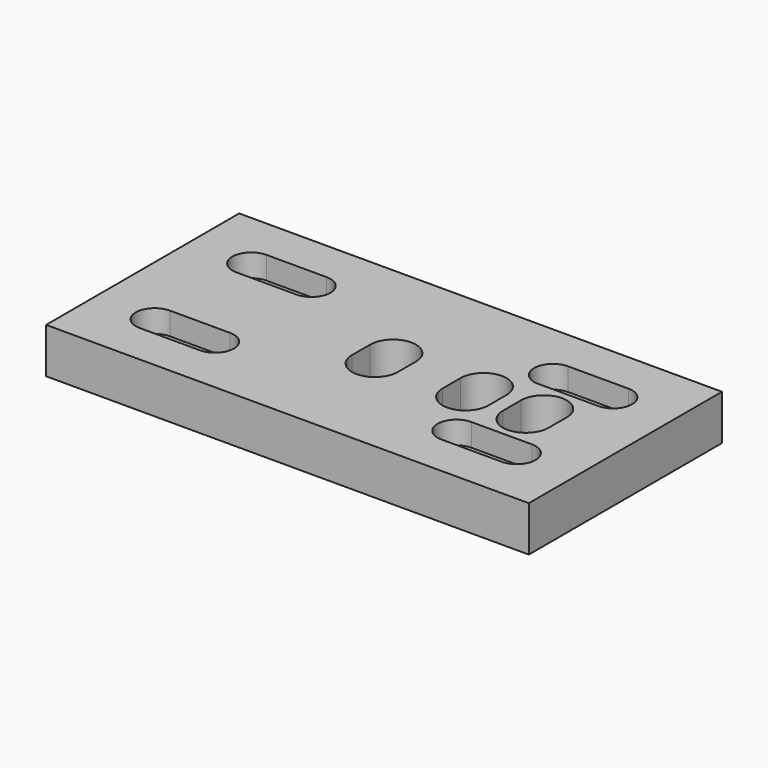
from build123d import *

# Parameters (mm, degrees)
F0_W     = 203.2
F0_H     = 101.6
F1_DEPTH = 19.05
F3_DEPTH = 19.051
F4_DEPTH = 9.525
F6_DEPTH = 19.051


with BuildPart() as f1:
    # F0 (on Top) → F1 (new body)
    with BuildSketch(Plane.XY):
        with Locations((-19.338908, 2.951313)):
            Rectangle(F0_W, F0_H)
    extrude(amount=F1_DEPTH)

    # F2 (on face) → F3 (cut, through all)
    with BuildSketch(Plane.XY.offset(19.05)):
        with BuildLine():
            ThreePointArc((-95.538908, 33.507513), (-100.695108, 28.351313), (-95.538908, 23.195113))
            Line((-95.538908, 23.195113), (-70.138908, 23.195113))
            ThreePointArc((-70.138908, 23.195113), (-64.982708, 28.351313), (-70.138908, 33.507513))
            Line((-70.138908, 33.507513), (-95.538908, 33.507513))
        make_face()
        with BuildLine():
            Line((56.861092, 33.507513), (31.461092, 33.507513))
            ThreePointArc((31.461092, 33.507513), (26.304892, 28.351313), (31.461092, 23.195113))
            Line((31.461092, 23.195113), (56.861092, 23.195113))
            ThreePointArc((56.861092, 23.195113), (62.017292, 28.351313), (56.861092, 33.507513))
        make_face()
        with BuildLine():
            Line((31.461092, -27.604887), (56.861092, -27.604887))
            ThreePointArc((56.861092, -27.604887), (62.017292, -22.448687), (56.861092, -17.292487))
            Line((56.861092, -17.292487), (31.461092, -17.292487))
            ThreePointArc((31.461092, -17.292487), (26.304892, -22.448687), (31.461092, -27.604887))
        make_face()
        with BuildLine():
            Line((-70.138908, -17.292487), (-95.538908, -17.292487))
            ThreePointArc((-95.538908, -17.292487), (-100.695108, -22.448687), (-95.538908, -27.604887))
            Line((-95.538908, -27.604887), (-70.138908, -27.604887))
            ThreePointArc((-70.138908, -27.604887), (-64.982708, -22.448687), (-70.138908, -17.292487))
        make_face()
    extrude(amount=-F3_DEPTH, mode=Mode.SUBTRACT)

    # F2 (on face) → F4 (cut)
    with BuildSketch(Plane.XY.offset(19.05)):
        with BuildLine():
            ThreePointArc((-95.538908, 33.507513), (-100.695108, 28.351313), (-95.538908, 23.195113))
            Line((-95.538908, 23.195113), (-70.138908, 23.195113))
            ThreePointArc((-70.138908, 23.195113), (-64.982708, 28.351313), (-70.138908, 33.507513))
            Line((-70.138908, 33.507513), (-95.538908, 33.507513))
        make_face()
        with BuildLine():
            ThreePointArc((-95.538908, 36.288813), (-103.476408, 28.351313), (-95.538908, 20.413813))
            Line((-95.538908, 20.413813), (-70.138908, 20.413813))
            ThreePointArc((-70.138908, 20.413813), (-62.201408, 28.351313), (-70.138908, 36.288813))
            Line((-70.138908, 36.288813), (-95.538908, 36.288813))
        make_face()
        with BuildLine():
            Line((-70.138908, 23.195113), (-95.538908, 23.195113))
            ThreePointArc((-95.538908, 23.195113), (-100.695108, 28.351313), (-95.538908, 33.507513))
            Line((-95.538908, 33.507513), (-70.138908, 33.507513))
            ThreePointArc((-70.138908, 33.507513), (-64.982708, 28.351313), (-70.138908, 23.195113))
        make_face(mode=Mode.SUBTRACT)
        with BuildLine():
            Line((56.861092, 36.288813), (31.461092, 36.288813))
            ThreePointArc((31.461092, 36.288813), (23.523592, 28.351313), (31.461092, 20.413813))
            Line((31.461092, 20.413813), (56.861092, 20.413813))
            ThreePointArc((56.861092, 20.413813), (64.798592, 28.351313), (56.861092, 36.288813))
        make_face()
        with BuildLine():
            ThreePointArc((31.461092, 23.195113), (26.304892, 28.351313), (31.461092, 33.507513))
            Line((31.461092, 33.507513), (56.861092, 33.507513))
            ThreePointArc((56.861092, 33.507513), (62.017292, 28.351313), (56.861092, 23.195113))
            Line((56.861092, 23.195113), (31.461092, 23.195113))
        make_face(mode=Mode.SUBTRACT)
        with BuildLine():
            Line((-95.538908, -30.386187), (-70.138908, -30.386187))
            ThreePointArc((-70.138908, -30.386187), (-62.201408, -22.448687), (-70.138908, -14.511187))
            Line((-70.138908, -14.511187), (-95.538908, -14.511187))
            ThreePointArc((-95.538908, -14.511187), (-103.476408, -22.448687), (-95.538908, -30.386187))
        make_face()
        with BuildLine():
            ThreePointArc((-95.538908, -27.604887), (-100.695108, -22.448687), (-95.538908, -17.292487))
            Line((-95.538908, -17.292487), (-70.138908, -17.292487))
            ThreePointArc((-70.138908, -17.292487), (-64.982708, -22.448687), (-70.138908, -27.604887))
            Line((-70.138908, -27.604887), (-95.538908, -27.604887))
        make_face(mode=Mode.SUBTRACT)
        with BuildLine():
            Line((31.461092, -30.386187), (56.861092, -30.386187))
            ThreePointArc((56.861092, -30.386187), (64.798592, -22.448687), (56.861092, -14.511187))
            Line((56.861092, -14.511187), (31.461092, -14.511187))
            ThreePointArc((31.461092, -14.511187), (23.523592, -22.448687), (31.461092, -30.386187))
        make_face()
        with BuildLine():
            ThreePointArc((56.861092, -17.292487), (62.017292, -22.448687), (56.861092, -27.604887))
            Line((56.861092, -27.604887), (31.461092, -27.604887))
            ThreePointArc((31.461092, -27.604887), (26.304892, -22.448687), (31.461092, -17.292487))
            Line((31.461092, -17.292487), (56.861092, -17.292487))
        make_face(mode=Mode.SUBTRACT)
    extrude(amount=-F4_DEPTH, mode=Mode.SUBTRACT)

    # F5 (on face) → F6 (cut, through all)
    with BuildSketch(Plane.XY.offset(19.05)):
        with BuildLine():
            Line((-28.990908, 7.713813), (-28.990908, 2.951313))
            Line((-28.990908, 2.951313), (-19.338908, 2.951313))
            Line((-19.338908, 2.951313), (-9.686908, 2.951313))
            Line((-9.686908, 2.951313), (-9.686908, 7.713813))
            ThreePointArc((-9.686908, 7.713813), (-19.338908, 17.365813), (-28.990908, 7.713813))
        make_face()
        with BuildLine():
            Line((-19.338908, 2.951313), (-28.990908, 2.951313))
            Line((-28.990908, 2.951313), (-28.990908, -1.811187))
            ThreePointArc((-28.990908, -1.811187), (-19.338908, -11.463187), (-9.686908, -1.811187))
            Line((-9.686908, -1.811187), (-9.686908, 2.951313))
            Line((-9.686908, 2.951313), (-19.338908, 2.951313))
        make_face()
        with BuildLine():
            Line((9.109092, 7.713813), (9.109092, 2.951313))
            Line((9.109092, 2.951313), (18.761092, 2.951313))
            Line((18.761092, 2.951313), (28.413092, 2.951313))
            Line((28.413092, 2.951313), (28.413092, 7.713813))
            ThreePointArc((28.413092, 7.713813), (18.761092, 17.365813), (9.109092, 7.713813))
        make_face()
        with BuildLine():
            Line((18.761092, 2.951313), (9.109092, 2.951313))
            Line((9.109092, 2.951313), (9.109092, -1.811187))
            ThreePointArc((9.109092, -1.811187), (18.761092, -11.463187), (28.413092, -1.811187))
            Line((28.413092, -1.811187), (28.413092, 2.951313))
            Line((28.413092, 2.951313), (18.761092, 2.951313))
        make_face()
        with BuildLine():
            Line((44.161092, 2.951313), (53.813092, 2.951313))
            Line((53.813092, 2.951313), (53.813092, 7.713813))
            ThreePointArc((53.813092, 7.713813), (44.161092, 17.365813), (34.509092, 7.713813))
            Line((34.509092, 7.713813), (34.509092, 2.951313))
            Line((34.509092, 2.951313), (44.161092, 2.951313))
        make_face()
        with BuildLine():
            Line((53.813092, -1.811187), (53.813092, 2.951313))
            Line((53.813092, 2.951313), (44.161092, 2.951313))
            Line((44.161092, 2.951313), (34.509092, 2.951313))
            Line((34.509092, 2.951313), (34.509092, -1.811187))
            ThreePointArc((34.509092, -1.811187), (44.161092, -11.463187), (53.813092, -1.811187))
        make_face()
    extrude(amount=-F6_DEPTH, mode=Mode.SUBTRACT)


solid = f1.part
